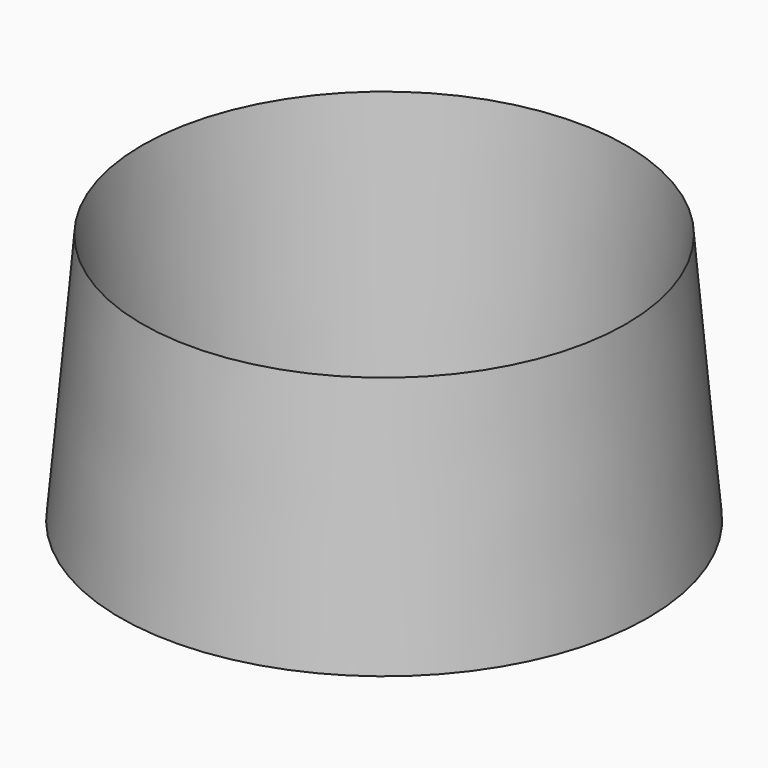
from build123d import *

# Parameters (mm, degrees)
F0_R     = 38.1
F0_R_2   = 31.75
F1_DEPTH = 88.9
F1_TAPER = 5


with BuildPart() as f1:
    # F0 (on Top) → F1 (new body)
    with BuildSketch(Plane.XY):
        Circle(F0_R)
        Circle(F0_R_2, mode=Mode.SUBTRACT)
    extrude(amount=F1_DEPTH, taper=F1_TAPER)


solid = f1.part
